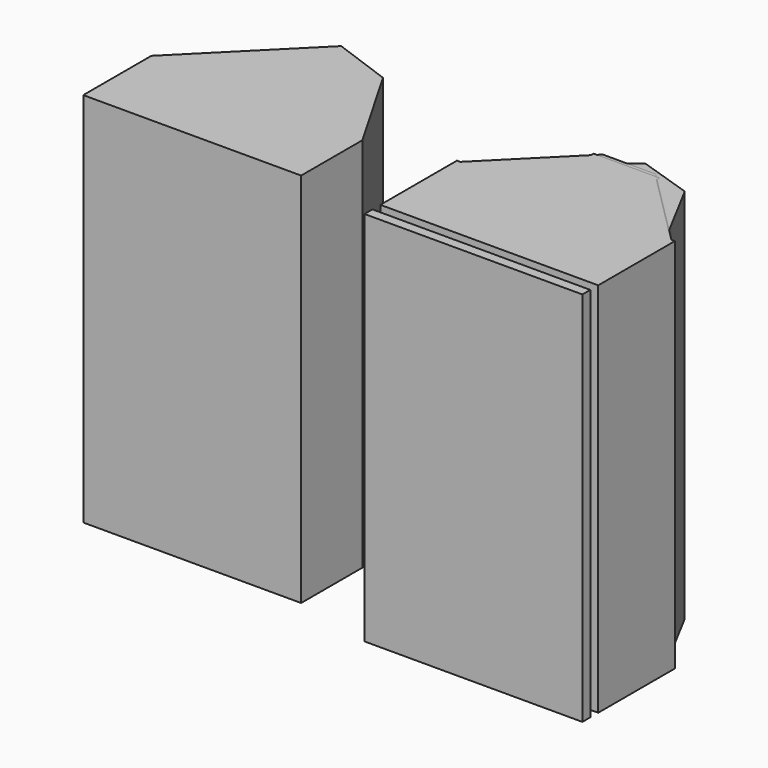
from build123d import *

# Parameters (mm, degrees)
F2_DEPTH = 570
F5_DEPTH = 570
F4_W     = 330
F4_H     = 15
F6_DEPTH = 570
F8_DEPTH = 570
F9_DEPTH = 570


with BuildPart() as f2:
    # F1 (on Top) → F2 (new body)
    with BuildSketch(Plane.XY):
        Polygon((15, 159.005385), (15, 30), (345, 30), (345, 150.238831), (274.589164, 281.814746), (193.226107, 308.554846), align=None)
    extrude(amount=F2_DEPTH)


with BuildPart() as f5:
    # F4 (on Top) → F5 (new body)
    with BuildSketch(Plane.XY):
        Polygon((15, 170), (15, 30), (345, 30), (345, 170), (220, 295), (140, 295), align=None)
    extrude(amount=F5_DEPTH)


with BuildPart() as f6:
    # F4 (on Top) → F6 (new body)
    with BuildSketch(Plane.XY):
        with Locations((180, 7.5)):
            Rectangle(F4_W, F4_H)
    extrude(amount=F6_DEPTH)


with BuildPart() as f8:
    # F7 (on Top) → F8 (new body)
    with BuildSketch(Plane.XY):
        Polygon((-275.170926, 318.615871), (-435, 158.786797), (-435, 150), (-435, 30), (-105, 30), (-105, 141.339746), (-105, 145.980762), (-107.320508, 150), (-185.914793, 286.129295), align=None)
    extrude(amount=F8_DEPTH)


with BuildPart() as f9:
    # F3 (on Top) → F9 (new body)
    with BuildSketch(Plane.XY):
        Polygon((15, 175), (15, 30), (345, 30), (345, 175), (338.786797, 175), (230, 283.786797), (230, 290), (130, 290), (130, 283.786797), (21.213203, 175), align=None)
    extrude(amount=F9_DEPTH)


solid = Compound([f2.part, f5.part, f6.part, f8.part, f9.part])
